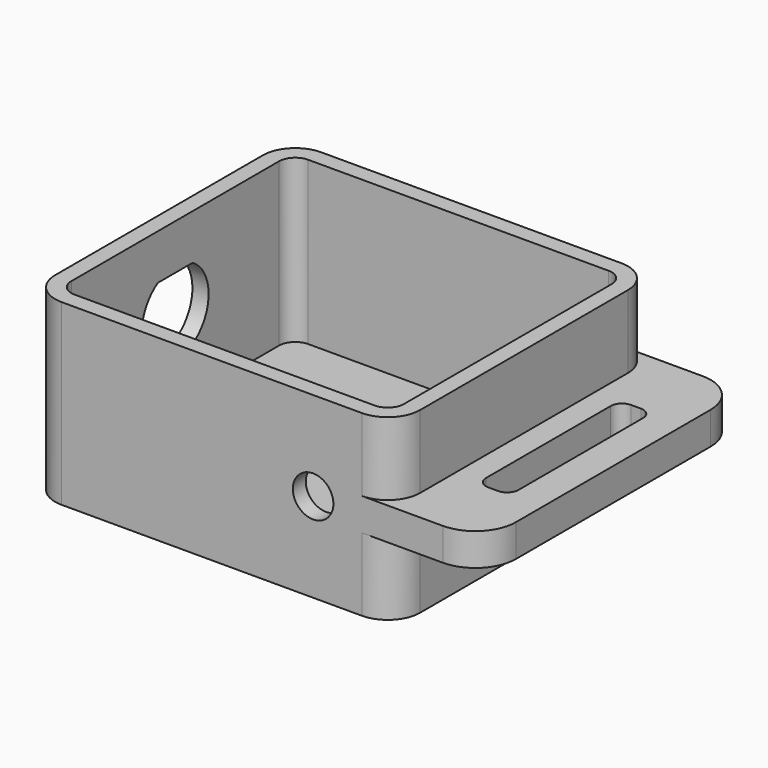
from build123d import *

# Parameters (mm, degrees)
F0_W      = 57.15
F0_H      = 50.8
F1_DEPTH  = 27.94
F2_R      = 5.08
F5_DEPTH  = 2.54
F7_DEPTH  = 25.4
F9_DEPTH  = 2.54
F10_R     = 3.175
F11_DEPTH = 50.801
F13_DEPTH = 5.08


with BuildPart() as f1:
    # F0 (on Top) → F1 (new body)
    with BuildSketch(Plane.XY):
        Rectangle(F0_W, F0_H)
    extrude(amount=F1_DEPTH)

    # F2
    f2_edges = [f1.edges().sort_by_distance(p)[0] for p in [
        (-28.575, 25.4, 13.97),
        (28.575, 25.4, 13.97),
        (28.575, -25.4, 13.97),
        (-28.575, -25.4, 13.97),
    ]]
    fillet(f2_edges, radius=F2_R)

    # F4 (on offset) → F5 (join, symmetric)
    with BuildSketch(Plane(origin=(0, 0, 13.97), x_dir=(1, 0, 0), z_dir=(0, 0, -1))):
        with BuildLine():
            Line((36.195, 25.4), (23.495, 25.4))
            Line((23.495, 25.4), (23.495, -25.4))
            Line((23.495, -25.4), (36.195, -25.4))
            ThreePointArc((36.195, -25.4), (40.685128, -23.540128), (42.545, -19.05))
            Line((42.545, -19.05), (42.545, 19.05))
            ThreePointArc((42.545, 19.05), (40.685128, 23.540128), (36.195, 25.4))
        make_face()
    extrude(amount=F5_DEPTH, both=True)

    # F6 (on face) → F7 (cut)
    with BuildSketch(Plane.XY.offset(27.94)):
        with BuildLine():
            ThreePointArc((-26.035, -20.32), (-25.291051, -22.116051), (-23.495, -22.86))
            Line((-23.495, -22.86), (23.495, -22.86))
            ThreePointArc((23.495, -22.86), (25.291051, -22.116051), (26.035, -20.32))
            Line((26.035, -20.32), (26.035, 20.32))
            ThreePointArc((26.035, 20.32), (25.291051, 22.116051), (23.495, 22.86))
            Line((23.495, 22.86), (-23.495, 22.86))
            ThreePointArc((-23.495, 22.86), (-25.291051, 22.116051), (-26.035, 20.32))
            Line((-26.035, 20.32), (-26.035, -20.32))
        make_face()
    extrude(amount=-F7_DEPTH, mode=Mode.SUBTRACT)

    # F8 (on face) → F9 (cut, through all)
    with BuildSketch(Plane(origin=(-28.575, 0, 0), x_dir=(0, -1, 0), z_dir=(-1, 0, 0))):
        with BuildLine():
            Line((3.398882, 20.828), (-3.398882, 20.828))
            ThreePointArc((-3.398882, 20.828), (0, 8.6995), (3.398882, 20.828))
        make_face()
    extrude(amount=-F9_DEPTH, mode=Mode.SUBTRACT)

    # F10 (on face) → F11 (cut, through all)
    with BuildSketch(Plane.XZ.offset(25.4)):
        with Locations((15.875, 13.97)):
            Circle(F10_R)
    extrude(amount=-F11_DEPTH, mode=Mode.SUBTRACT)

    # F12 (on face) → F13 (cut, through all)
    with BuildSketch(Plane.XY.offset(16.51)):
        with BuildLine():
            Line((35.687, 13.97), (34.163, 13.97))
            ThreePointArc((34.163, 13.97), (32.905764, 13.449236), (32.385, 12.192))
            Line((32.385, 12.192), (32.385, -12.192))
            ThreePointArc((32.385, -12.192), (32.905764, -13.449236), (34.163, -13.97))
            Line((34.163, -13.97), (35.687, -13.97))
            ThreePointArc((35.687, -13.97), (36.944236, -13.449236), (37.465, -12.192))
            Line((37.465, -12.192), (37.465, 12.192))
            ThreePointArc((37.465, 12.192), (36.944236, 13.449236), (35.687, 13.97))
        make_face()
    extrude(amount=-F13_DEPTH, mode=Mode.SUBTRACT)


solid = f1.part
